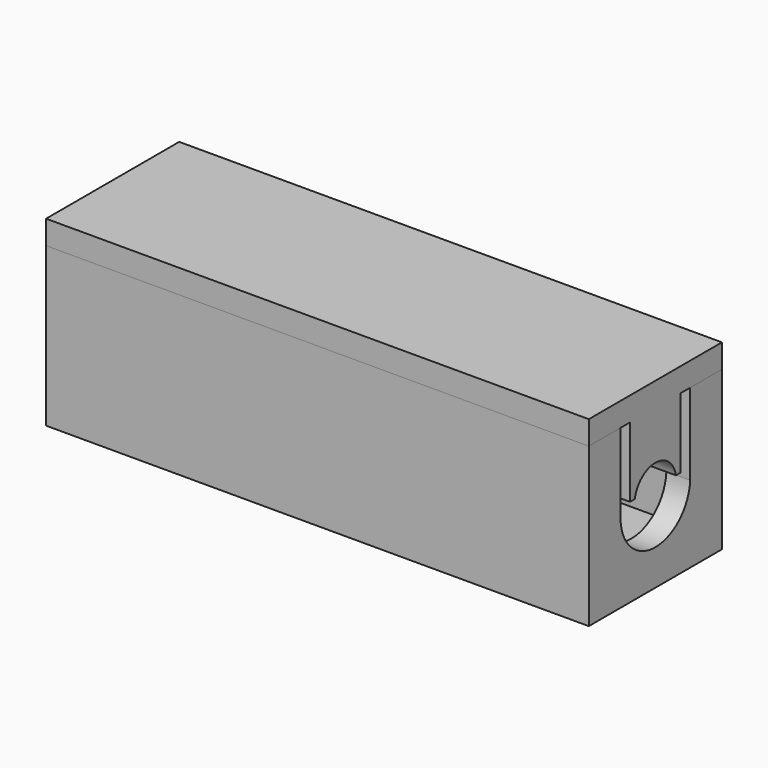
from build123d import *

# Parameters (mm, degrees)
F1_W      = 25
F1_H      = 6
F2_DEPTH  = 1.2
F1_W_2    = 27.4
F1_H_2    = 8.4
F3_DEPTH  = 8
F5_DEPTH  = 1.2
F7_DEPTH  = 1.2
F8_W      = 23.8
F8_H      = 4.8
F8_W_2    = 21.4
F8_H_2    = 2.4
F9_DEPTH  = 1.5
F11_DEPTH = 1.8


with BuildPart() as f2:
    # F1 (on Top) → F2 (new body)
    with BuildSketch(Plane.XY):
        with Locations((-6.6712582588, -14.9236761609)):
            Rectangle(F1_W, F1_H)
    extrude(amount=F2_DEPTH)

    # F1 (on Top) → F3 (join)
    with BuildSketch(Plane.XY):
        with Locations((-6.6712582588, -14.9236761609)):
            Rectangle(F1_W_2, F1_H_2)
        with Locations((-6.6712582588, -14.9236761609)):
            Rectangle(F1_W, F1_H, mode=Mode.SUBTRACT)
    extrude(amount=F3_DEPTH)

    # F4 (on face) → F5 (cut, through all)
    with BuildSketch(Plane.YZ.offset(7.0287417412)):
        with BuildLine():
            Line((-17.1218709581, 8), (-17.1218709581, 4.0891046225))
            Line((-17.1218709581, 4.0891046225), (-17.1218709581, 3.9108953775))
            ThreePointArc((-17.1218709581, 3.9108953775), (-14.9367487796, 1.8000388397), (-12.7266955123, 3.8847783471))
            Line((-12.7266955123, 3.8847783471), (-12.7266955123, 4.1152216529))
            Line((-12.7266955123, 4.1152216529), (-12.7266955123, 8))
            Line((-12.7266955123, 8), (-17.1218709581, 8))
        make_face()
    extrude(amount=-F5_DEPTH, mode=Mode.SUBTRACT)


with BuildPart() as f7:
    # F6 (on face) → F7 (new body)
    with BuildSketch(Plane.XY.offset(8)):
        Polygon((7.0287417412, -10.7236761609), (-20.3712582588, -10.7236761609), (-20.3712582588, -19.1236761609), (7.0287417412, -19.1236761609), (7.0287417412, -17.1218709581), (5.8287417412, -17.1218709581), (5.8287417412, -17.9236761609), (-19.1712582588, -17.9236761609), (-19.1712582588, -11.9236761609), (5.8287417412, -11.9236761609), (5.8287417412, -12.7266955123), (7.0287417412, -12.7266955123), align=None)
        Polygon((7.0287417412, -17.1218709581), (7.0287417412, -12.7266955123), (5.8287417412, -12.7266955123), (5.8287417412, -11.9236761609), (-19.1712582588, -11.9236761609), (-19.1712582588, -17.9236761609), (5.8287417412, -17.9236761609), (5.8287417412, -17.1218709581), align=None)
    extrude(amount=F7_DEPTH)

    # F8 (on face) → F9 (join)
    with BuildSketch(Plane(origin=(0, 0, 8), x_dir=(1, 0, 0), z_dir=(0, 0, -1))):
        with Locations((-6.6712582588, 14.9236761609)):
            Rectangle(F8_W, F8_H)
        with Locations((-6.6712582588, 14.9236761609)):
            Rectangle(F8_W_2, F8_H_2, mode=Mode.SUBTRACT)
    extrude(amount=F9_DEPTH)

    # F10 (on face) → F11 (join, through all)
    with BuildSketch(Plane.YZ.offset(7.0287417412)):
        with BuildLine():
            Line((-13.6266955123, 4.4673751108), (-13.3266955123, 4.4673751108))
            Line((-13.3266955123, 4.4673751108), (-13.3266955123, 8))
            Line((-13.3266955123, 8), (-16.5218709581, 8))
            Line((-16.5218709581, 8), (-16.5218709581, 4.4673751108))
            Line((-16.5218709581, 4.4673751108), (-16.2218709581, 4.4673751108))
            ThreePointArc((-16.2218709581, 4.4673751108), (-14.9242832352, 5.5551861717), (-13.6266955123, 4.4673751108))
        make_face()
    extrude(amount=-F11_DEPTH)


solid = Compound([f2.part, f7.part])
